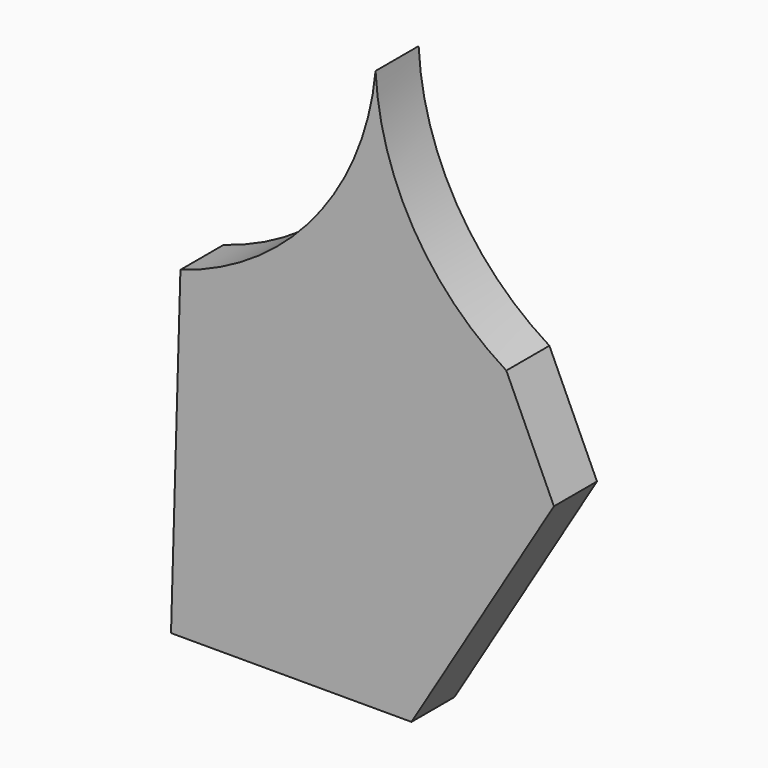
from build123d import *

# Parameters (mm, degrees)
F1_DEPTH = 25.4


with BuildPart() as f1:
    # F0 (on Front) → F1 (new body)
    with BuildSketch(Plane.XZ):
        with BuildLine():
            Line((-113.4872, 0), (-109.0422, 0))
            Line((-109.0422, 0), (0, 0))
            Line((0, 0), (67.239726, 111.464568))
            Line((67.239726, 111.464568), (44.77097, 160.540587))
            ThreePointArc((44.77097, 160.540587), (1.021835, 205.134265), (-16.943187, 264.966037))
            ThreePointArc((-16.943187, 264.966037), (-45.82596, 194.637581), (-109.0422, 152.4))
            Line((-109.0422, 152.4), (-113.4872, 0))
        make_face()
    extrude(amount=F1_DEPTH)


solid = f1.part
